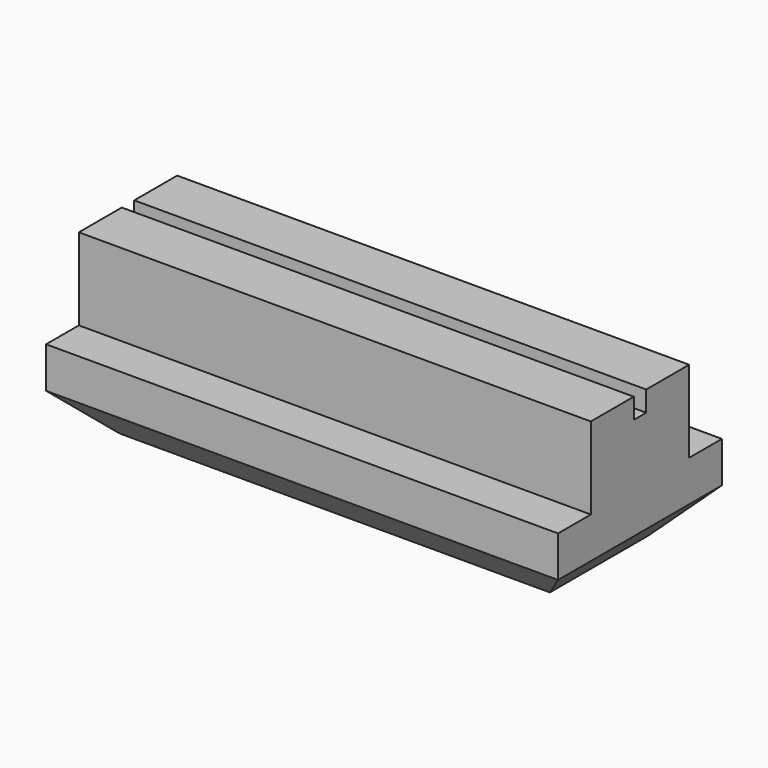
from build123d import *

# Parameters (mm, degrees)
F0_W     = 25
F0_H     = 8
F1_DEPTH = 5
F2_SIZE  = 2
F3_SIZE  = 2
F4_W     = 2
F4_H     = 4
F5_DEPTH = 25


with BuildPart() as f1:
    # F0 (on Front) → F1 (new body, symmetric)
    with BuildSketch(Plane.XZ):
        with Locations((0, 30)):
            Rectangle(F0_W, F0_H)
    extrude(amount=F1_DEPTH, both=True)

    # F2
    f2_edges = [f1.edges().sort_by_distance(p)[0] for p in [
        (12.5, 0, 26),
        (-12.5, 0, 26),
    ]]
    chamfer(f2_edges, length=F2_SIZE)

    # F3
    f3_edges = [f1.edges().sort_by_distance(p)[0] for p in [
        (0, -5, 26),
        (0, 5, 26),
    ]]
    chamfer(f3_edges, length=F3_SIZE)

    # F4 (on face) → F5 (cut)
    with BuildSketch(Plane(origin=(-12.5, 0, 0), x_dir=(0, -1, 0), z_dir=(-1, 0, 0))):
        with Locations((4, 32)):
            Rectangle(F4_W, F4_H)
        with Locations((-4, 32)):
            Rectangle(F4_W, F4_H)
        Polygon((-0.38, 33), (0, 33), (0.38, 33), (0.38, 34), (-0.38, 34), align=None)
    extrude(amount=-F5_DEPTH, mode=Mode.SUBTRACT)


solid = f1.part
